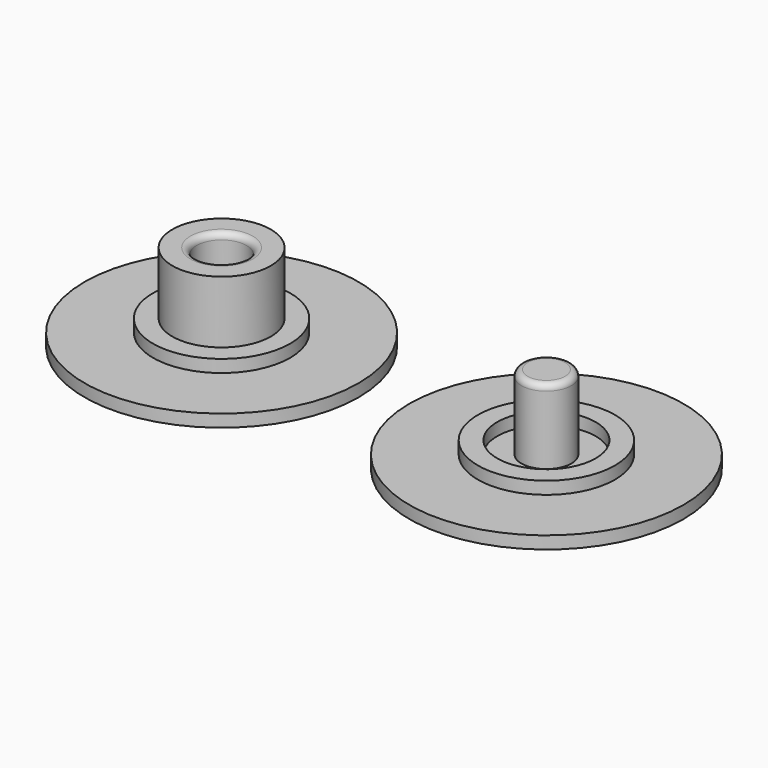
from build123d import *

# Parameters (mm, degrees)
F0_R     = 11
F0_R_2   = 5.5
F1_DEPTH = 1
F0_R_3   = 3.95
F2_DEPTH = 2
F0_R_4   = 2
F3_DEPTH = 7
F4_DEPTH = 1
F5_R     = 0.5
F5_2_R   = 0.5


with BuildPart() as f1:
    # F0 (on Top) → F1 (new body)
    with BuildSketch(Plane.XY):
        Circle(F0_R)
        Circle(F0_R_2, mode=Mode.SUBTRACT)
    extrude(amount=F1_DEPTH)

    # F0 (on Top) → F2 (join)
    with BuildSketch(Plane.XY):
        Circle(F0_R_2)
        Circle(F0_R_3, mode=Mode.SUBTRACT)
    extrude(amount=F2_DEPTH)

    # F0 (on Top) → F3 (join)
    with BuildSketch(Plane.XY):
        Circle(F0_R_3)
        Circle(F0_R_4, mode=Mode.SUBTRACT)
    extrude(amount=F3_DEPTH)

    # F0 (on Top) → F4, piece 2 (join)
    with BuildSketch(Plane.XY):
        Circle(F0_R_4)
    extrude(amount=F4_DEPTH)

    # F5
    f5_edges = [f1.edges().sort_by_distance(p)[0] for p in [
        (-2, 0, 7),
    ]]
    fillet(f5_edges, radius=F5_R)


with BuildPart() as f1b:
    # F0 (on Top) → F1, piece 2 (new body)
    with BuildSketch(Plane.XY):
        with Locations((26.220003143, -0.1937223424)):
            Circle(F0_R)
        with Locations((26.220003143, -0.1937223424)):
            Circle(F0_R_2, mode=Mode.SUBTRACT)
    extrude(amount=F1_DEPTH)

    # F0 (on Top) → F2, piece 2 (join)
    with BuildSketch(Plane.XY):
        with Locations((26.220003143, -0.1937223424)):
            Circle(F0_R_2)
        with Locations((26.220003143, -0.1937223424)):
            Circle(F0_R_3, mode=Mode.SUBTRACT)
    extrude(amount=F2_DEPTH)



with BuildPart() as f3:
    # F0 (on Top) → F3, piece 2 (new body)
    with BuildSketch(Plane.XY):
        with Locations((26.220003143, -0.1937223424)):
            Circle(F0_R_4)
    extrude(amount=F3_DEPTH)


with BuildPart() as f1b_1:
    add(f1b.part)

    add(f3.part)  # F4 merges F3
    # F0 (on Top) → F4 (join)
    with BuildSketch(Plane.XY):
        with Locations((26.220003143, -0.1937223424)):
            Circle(F0_R_3)
        with Locations((26.220003143, -0.1937223424)):
            Circle(F0_R_4, mode=Mode.SUBTRACT)
    extrude(amount=F4_DEPTH)

    # F5#2
    f5_2_edges = [f1b_1.edges().sort_by_distance(p)[0] for p in [
        (24.220003, -0.193722, 7),
    ]]
    fillet(f5_2_edges, radius=F5_2_R)


solid = Compound([f1.part, f1b_1.part])
